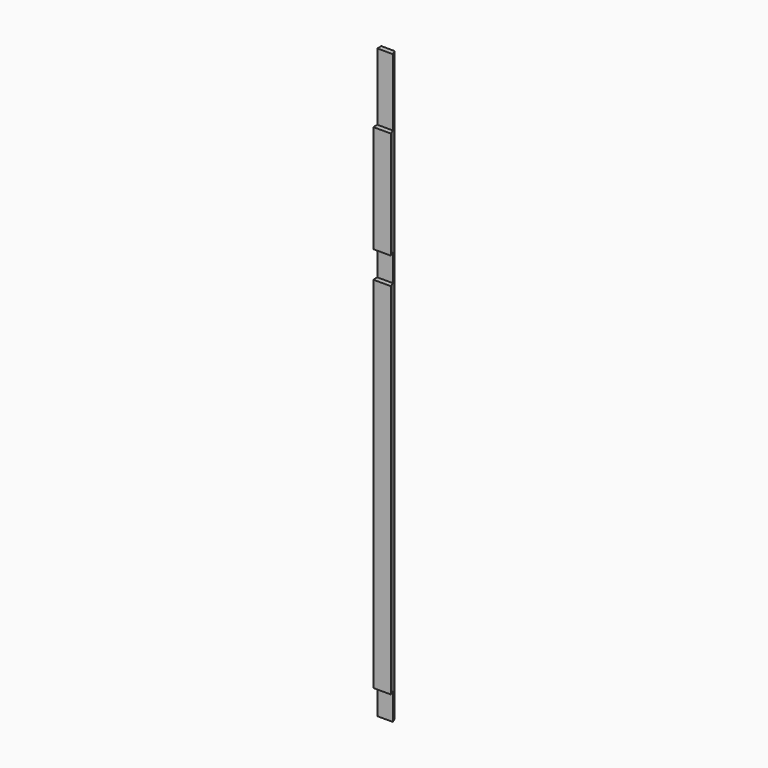
from build123d import *

# Parameters (mm, degrees)
F1_DEPTH = 1111.25
F2_W     = 122.435573
F2_H     = 50.8
F2_W_2   = 93.867282
F2_W_3   = 343.160421
F2_H_2   = 127
F3_DEPTH = 25.4
F4_R     = 0.79375
F5_DEPTH = 25.4


with BuildPart() as f1:
    # F0 (on Top) → F1 (new body)
    with BuildSketch(Plane.XY):
        Polygon((7.890768, -9.525), (0, 9.525), (-25.4, 9.525), (-25.4, -9.525), align=None)
    extrude(amount=F1_DEPTH)

    # F2 (on Front) → F3 (cut)
    with BuildSketch(Plane.XZ):
        with Locations((22.446524, 25.4)):
            Rectangle(F2_W, F2_H)
        with Locations((2.720783, 755.65)):
            Rectangle(F2_W_2, F2_H)
        with Locations((-38.781822, 1047.75)):
            Rectangle(F2_W_3, F2_H_2)
    extrude(amount=F3_DEPTH, mode=Mode.SUBTRACT)

    # F4 (on Front) → F5 (cut)
    with BuildSketch(Plane.XZ):
        with Locations((12.7, 101.6)):
            Circle(F4_R)
        with Locations((12.7, 155.575)):
            Circle(F4_R)
        with Locations((12.7, 625.475)):
            Circle(F4_R)
        with Locations((12.7, 679.45)):
            Circle(F4_R)
        with Locations((-12.7, 625.475)):
            Circle(F4_R)
        with Locations((-12.7, 679.45)):
            Circle(F4_R)
        with Locations((-12.7, 101.6)):
            Circle(F4_R)
        with Locations((-12.7, 155.575)):
            Circle(F4_R)
    extrude(amount=-F5_DEPTH, mode=Mode.SUBTRACT)


solid = f1.part
